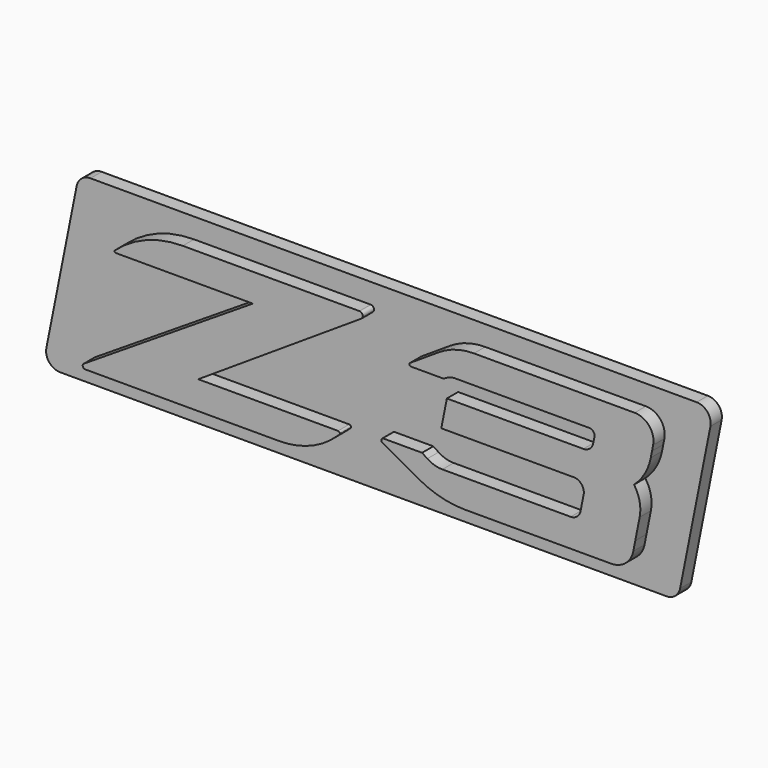
from build123d import *

# Parameters (mm, degrees)
F1_DEPTH = 7
F2_DEPTH = 7
F3_SCALE = 0.2857142857
F4_R     = 2


with BuildPart() as f1:
    # F0 (on Front) → F1 (new body)
    with BuildSketch(Plane.XZ):
        Polygon((147.4933057071, -37.0837153708), (165.3765259448, 52.9162846292), (-150.931521252, 52.9162846292), (-168.8147414897, -37.0837153708), align=None)
        with BuildLine():
            ThreePointArc((-142.1973491985, -27.0837153708), (-143.3851815175, -26.1930259545), (-142.862989539, -24.8032098545))
            Line((-142.862989539, -24.8032098545), (-58.6805177571, 28.9162846292))
            Line((-58.6805177571, 28.9162846292), (-126.9385200674, 28.9162846292))
            ThreePointArc((-126.9385200674, 28.9162846292), (-127.5078443538, 29.3082097622), (-127.3449539143, 29.9799255933))
            Line((-127.3449539143, 29.9799255933), (-127.2790222066, 30.0389277041))
            ThreePointArc((-127.2790222066, 30.0389277041), (-111.6172057975, 39.5872981724), (-93.5788654913, 42.9162846292))
            Line((-93.5788654913, 42.9162846292), (-5.5300716236, 42.9162846292))
            ThreePointArc((-5.5300716236, 42.9162846292), (-3.9542047196, 41.7407419895), (-4.6319434734, 39.8952265659))
            Line((-4.6319434734, 39.8952265659), (-85.8602612303, -13.0837153708))
            Line((-85.8602612303, -13.0837153708), (-16.1713797912, -13.0837153708))
            ThreePointArc((-16.1713797912, -13.0837153708), (-15.4024508391, -13.6051323257), (-15.6023385777, -14.5124207397))
            Line((-15.6023385777, -14.5124207397), (-16.8030846787, -15.64925817))
            ThreePointArc((-16.8030846787, -15.64925817), (-30.0607978631, -24.1199204391), (-45.5118495348, -27.0837153708))
            Line((-45.5118495348, -27.0837153708), (-142.1973491985, -27.0837153708))
        make_face(mode=Mode.SUBTRACT)
        with BuildLine():
            Line((106.0489553402, 28.9162846292), (41.869228107, 28.9162846292))
            ThreePointArc((41.869228107, 28.9162846292), (40.0797780502, 28.6938397575), (38.3992524714, 28.0400454431))
            Line((38.3992524714, 28.0400454431), (36.3160483539, 26.9162846292))
            Line((36.3160483539, 26.9162846292), (20.0493094875, 26.9162846292))
            ThreePointArc((20.0493094875, 26.9162846292), (19.3010202491, 27.474482726), (19.6228396963, 28.3508126542))
            Line((19.6228396963, 28.3508126542), (33.9806112595, 37.7152752825))
            ThreePointArc((33.9806112595, 37.7152752825), (42.3496315662, 41.5885064265), (51.4753877229, 42.9162846292))
            Line((51.4753877229, 42.9162846292), (131.5684478923, 42.9162846292))
            ThreePointArc((131.5684478923, 42.9162846292), (138.8204863429, 39.4867738937), (140.7708688735, 31.7054106738))
            Line((140.7708688735, 31.7054106738), (140.2166627032, 28.9162846292))
            Line((140.2166627032, 28.9162846292), (139.5981588527, 25.8035708221))
            ThreePointArc((139.5981588527, 25.8035708221), (136.6200902795, 17.8684779813), (131.2590653991, 11.3038757046))
            ThreePointArc((131.2590653991, 11.3038757046), (134.023896113, 4.9032216546), (134.0598180061, -2.0689638538))
            Line((134.0598180061, -2.0689638538), (131.8711599256, -13.0837153708))
            Line((131.8711599256, -13.0837153708), (130.884948536, -18.0469727646))
            ThreePointArc((130.884948536, -18.0469727646), (126.99738704, -24.5352055481), (119.8759127038, -27.0837153708))
            Line((119.8759127038, -27.0837153708), (47.1499341011, -27.0837153708))
            ThreePointArc((47.1499341011, -27.0837153708), (35.1544316326, -25.5630169154), (23.9178624463, -21.0971333315))
            Line((23.9178624463, -21.0971333315), (5.8807617496, -11.1401478834))
            ThreePointArc((5.8807617496, -11.1401478834), (5.3488703402, -9.9065948541), (6.4106758325, -9.0837153708))
            Line((6.4106758325, -9.0837153708), (25.6471037865, -9.0837153708))
            Line((25.6471037865, -9.0837153708), (28.2685634943, -10.8223722179))
            ThreePointArc((28.2685634943, -10.8223722179), (31.8522465321, -12.5060863745), (35.7693911833, -13.0837153708))
            Line((35.7693911833, -13.0837153708), (99.6904770334, -13.0837153708))
            ThreePointArc((99.6904770334, -13.0837153708), (102.8628336901, -11.9484473464), (104.594600317, -9.058176668))
            Line((104.594600317, -9.058176668), (106.1541152114, -1.209683017))
            ThreePointArc((106.1541152114, -1.209683017), (105.1147239034, 2.9371349369), (101.2499919278, 4.7647782803))
            Line((101.2499919278, 4.7647782803), (35.2246427987, 4.7647782803))
            Line((35.2246427987, 4.7647782803), (38.0064770579, 18.7647782803))
            Line((38.0064770579, 18.7647782803), (106.0188506579, 18.7647782803))
            ThreePointArc((106.0188506579, 18.7647782803), (109.1912073145, 19.9000463047), (110.9229739414, 22.790316983))
            Line((110.9229739414, 22.790316983), (111.5311561589, 25.8510856166))
            ThreePointArc((111.5311561589, 25.8510856166), (110.9978961623, 27.9786117089), (109.0150943587, 28.9162846292))
            Line((109.0150943587, 28.9162846292), (106.0489553402, 28.9162846292))
        make_face(mode=Mode.SUBTRACT)
        with BuildLine():
            Line((-58.6805177571, 28.9162846292), (-142.862989539, -24.8032098545))
            ThreePointArc((-142.862989539, -24.8032098545), (-143.3851815175, -26.1930259545), (-142.1973491985, -27.0837153708))
            Line((-142.1973491985, -27.0837153708), (-45.5118495348, -27.0837153708))
            ThreePointArc((-45.5118495348, -27.0837153708), (-30.0607978631, -24.1199204391), (-16.8030846787, -15.64925817))
            Line((-16.8030846787, -15.64925817), (-15.6023385777, -14.5124207397))
            ThreePointArc((-15.6023385777, -14.5124207397), (-15.4024508391, -13.6051323257), (-16.1713797912, -13.0837153708))
            Line((-16.1713797912, -13.0837153708), (-85.8602612303, -13.0837153708))
            Line((-85.8602612303, -13.0837153708), (-4.6319434734, 39.8952265659))
            ThreePointArc((-4.6319434734, 39.8952265659), (-3.9542047196, 41.7407419895), (-5.5300716236, 42.9162846292))
            Line((-5.5300716236, 42.9162846292), (-93.5788654913, 42.9162846292))
            ThreePointArc((-93.5788654913, 42.9162846292), (-111.6172057975, 39.5872981724), (-127.2790222066, 30.0389277041))
            Line((-127.2790222066, 30.0389277041), (-127.3449539143, 29.9799255933))
            ThreePointArc((-127.3449539143, 29.9799255933), (-127.5078443538, 29.3082097622), (-126.9385200674, 28.9162846292))
            Line((-126.9385200674, 28.9162846292), (-58.6805177571, 28.9162846292))
        make_face()
        with BuildLine():
            ThreePointArc((38.3992524714, 28.0400454431), (40.0797780502, 28.6938397575), (41.869228107, 28.9162846292))
            Line((41.869228107, 28.9162846292), (106.0489553402, 28.9162846292))
            Line((106.0489553402, 28.9162846292), (109.0150943587, 28.9162846292))
            ThreePointArc((109.0150943587, 28.9162846292), (110.9978961623, 27.9786117089), (111.5311561589, 25.8510856166))
            Line((111.5311561589, 25.8510856166), (110.9229739414, 22.790316983))
            ThreePointArc((110.9229739414, 22.790316983), (109.1912073145, 19.9000463047), (106.0188506579, 18.7647782803))
            Line((106.0188506579, 18.7647782803), (38.0064770579, 18.7647782803))
            Line((38.0064770579, 18.7647782803), (35.2246427987, 4.7647782803))
            Line((35.2246427987, 4.7647782803), (101.2499919278, 4.7647782803))
            ThreePointArc((101.2499919278, 4.7647782803), (105.1147239034, 2.9371349369), (106.1541152114, -1.209683017))
            Line((106.1541152114, -1.209683017), (104.594600317, -9.058176668))
            ThreePointArc((104.594600317, -9.058176668), (102.8628336901, -11.9484473464), (99.6904770334, -13.0837153708))
            Line((99.6904770334, -13.0837153708), (35.7693911833, -13.0837153708))
            ThreePointArc((35.7693911833, -13.0837153708), (31.8522465321, -12.5060863745), (28.2685634943, -10.8223722179))
            Line((28.2685634943, -10.8223722179), (25.6471037865, -9.0837153708))
            Line((25.6471037865, -9.0837153708), (6.4106758325, -9.0837153708))
            ThreePointArc((6.4106758325, -9.0837153708), (5.3488703402, -9.9065948541), (5.8807617496, -11.1401478834))
            Line((5.8807617496, -11.1401478834), (23.9178624463, -21.0971333315))
            ThreePointArc((23.9178624463, -21.0971333315), (35.1544316326, -25.5630169154), (47.1499341011, -27.0837153708))
            Line((47.1499341011, -27.0837153708), (119.8759127038, -27.0837153708))
            ThreePointArc((119.8759127038, -27.0837153708), (126.99738704, -24.5352055481), (130.884948536, -18.0469727646))
            Line((130.884948536, -18.0469727646), (131.8711599256, -13.0837153708))
            Line((131.8711599256, -13.0837153708), (134.0598180061, -2.0689638538))
            ThreePointArc((134.0598180061, -2.0689638538), (134.023896113, 4.9032216546), (131.2590653991, 11.3038757046))
            ThreePointArc((131.2590653991, 11.3038757046), (136.6200902795, 17.8684779813), (139.5981588527, 25.8035708221))
            Line((139.5981588527, 25.8035708221), (140.2166627032, 28.9162846292))
            Line((140.2166627032, 28.9162846292), (140.7708688735, 31.7054106738))
            ThreePointArc((140.7708688735, 31.7054106738), (138.8204863429, 39.4867738937), (131.5684478923, 42.9162846292))
            Line((131.5684478923, 42.9162846292), (51.4753877229, 42.9162846292))
            ThreePointArc((51.4753877229, 42.9162846292), (42.3496315662, 41.5885064265), (33.9806112595, 37.7152752825))
            Line((33.9806112595, 37.7152752825), (19.6228396963, 28.3508126542))
            ThreePointArc((19.6228396963, 28.3508126542), (19.3010202491, 27.474482726), (20.0493094875, 26.9162846292))
            Line((20.0493094875, 26.9162846292), (36.3160483539, 26.9162846292))
            Line((36.3160483539, 26.9162846292), (38.3992524714, 28.0400454431))
        make_face()
    extrude(amount=-F1_DEPTH)

    # F0 (on Front) → F2 (join)
    with BuildSketch(Plane.XZ):
        with BuildLine():
            Line((-58.6805177571, 28.9162846292), (-142.862989539, -24.8032098545))
            ThreePointArc((-142.862989539, -24.8032098545), (-143.3851815175, -26.1930259545), (-142.1973491985, -27.0837153708))
            Line((-142.1973491985, -27.0837153708), (-45.5118495348, -27.0837153708))
            ThreePointArc((-45.5118495348, -27.0837153708), (-30.0607978631, -24.1199204391), (-16.8030846787, -15.64925817))
            Line((-16.8030846787, -15.64925817), (-15.6023385777, -14.5124207397))
            ThreePointArc((-15.6023385777, -14.5124207397), (-15.4024508391, -13.6051323257), (-16.1713797912, -13.0837153708))
            Line((-16.1713797912, -13.0837153708), (-85.8602612303, -13.0837153708))
            Line((-85.8602612303, -13.0837153708), (-4.6319434734, 39.8952265659))
            ThreePointArc((-4.6319434734, 39.8952265659), (-3.9542047196, 41.7407419895), (-5.5300716236, 42.9162846292))
            Line((-5.5300716236, 42.9162846292), (-93.5788654913, 42.9162846292))
            ThreePointArc((-93.5788654913, 42.9162846292), (-111.6172057975, 39.5872981724), (-127.2790222066, 30.0389277041))
            Line((-127.2790222066, 30.0389277041), (-127.3449539143, 29.9799255933))
            ThreePointArc((-127.3449539143, 29.9799255933), (-127.5078443538, 29.3082097622), (-126.9385200674, 28.9162846292))
            Line((-126.9385200674, 28.9162846292), (-58.6805177571, 28.9162846292))
        make_face()
        with BuildLine():
            ThreePointArc((38.3992524714, 28.0400454431), (40.0797780502, 28.6938397575), (41.869228107, 28.9162846292))
            Line((41.869228107, 28.9162846292), (106.0489553402, 28.9162846292))
            Line((106.0489553402, 28.9162846292), (109.0150943587, 28.9162846292))
            ThreePointArc((109.0150943587, 28.9162846292), (110.9978961623, 27.9786117089), (111.5311561589, 25.8510856166))
            Line((111.5311561589, 25.8510856166), (110.9229739414, 22.790316983))
            ThreePointArc((110.9229739414, 22.790316983), (109.1912073145, 19.9000463047), (106.0188506579, 18.7647782803))
            Line((106.0188506579, 18.7647782803), (38.0064770579, 18.7647782803))
            Line((38.0064770579, 18.7647782803), (35.2246427987, 4.7647782803))
            Line((35.2246427987, 4.7647782803), (101.2499919278, 4.7647782803))
            ThreePointArc((101.2499919278, 4.7647782803), (105.1147239034, 2.9371349369), (106.1541152114, -1.209683017))
            Line((106.1541152114, -1.209683017), (104.594600317, -9.058176668))
            ThreePointArc((104.594600317, -9.058176668), (102.8628336901, -11.9484473464), (99.6904770334, -13.0837153708))
            Line((99.6904770334, -13.0837153708), (35.7693911833, -13.0837153708))
            ThreePointArc((35.7693911833, -13.0837153708), (31.8522465321, -12.5060863745), (28.2685634943, -10.8223722179))
            Line((28.2685634943, -10.8223722179), (25.6471037865, -9.0837153708))
            Line((25.6471037865, -9.0837153708), (6.4106758325, -9.0837153708))
            ThreePointArc((6.4106758325, -9.0837153708), (5.3488703402, -9.9065948541), (5.8807617496, -11.1401478834))
            Line((5.8807617496, -11.1401478834), (23.9178624463, -21.0971333315))
            ThreePointArc((23.9178624463, -21.0971333315), (35.1544316326, -25.5630169154), (47.1499341011, -27.0837153708))
            Line((47.1499341011, -27.0837153708), (119.8759127038, -27.0837153708))
            ThreePointArc((119.8759127038, -27.0837153708), (126.99738704, -24.5352055481), (130.884948536, -18.0469727646))
            Line((130.884948536, -18.0469727646), (131.8711599256, -13.0837153708))
            Line((131.8711599256, -13.0837153708), (134.0598180061, -2.0689638538))
            ThreePointArc((134.0598180061, -2.0689638538), (134.023896113, 4.9032216546), (131.2590653991, 11.3038757046))
            ThreePointArc((131.2590653991, 11.3038757046), (136.6200902795, 17.8684779813), (139.5981588527, 25.8035708221))
            Line((139.5981588527, 25.8035708221), (140.2166627032, 28.9162846292))
            Line((140.2166627032, 28.9162846292), (140.7708688735, 31.7054106738))
            ThreePointArc((140.7708688735, 31.7054106738), (138.8204863429, 39.4867738937), (131.5684478923, 42.9162846292))
            Line((131.5684478923, 42.9162846292), (51.4753877229, 42.9162846292))
            ThreePointArc((51.4753877229, 42.9162846292), (42.3496315662, 41.5885064265), (33.9806112595, 37.7152752825))
            Line((33.9806112595, 37.7152752825), (19.6228396963, 28.3508126542))
            ThreePointArc((19.6228396963, 28.3508126542), (19.3010202491, 27.474482726), (20.0493094875, 26.9162846292))
            Line((20.0493094875, 26.9162846292), (36.3160483539, 26.9162846292))
            Line((36.3160483539, 26.9162846292), (38.3992524714, 28.0400454431))
        make_face()
    extrude(amount=F2_DEPTH)


with BuildPart() as f1_1:
    # F3: moved
    add(f1.part.scale(F3_SCALE))

    # F4
    f4_edges = [f1_1.edges().sort_by_distance(p)[0] for p in [
        (-48.232783, 1, -10.595347),
        (-43.123292, 1, 15.118938),
        (47.250436, 1, 15.118938),
        (42.140944, 1, -10.595347),
    ]]
    fillet(f4_edges, radius=F4_R)


solid = f1_1.part
